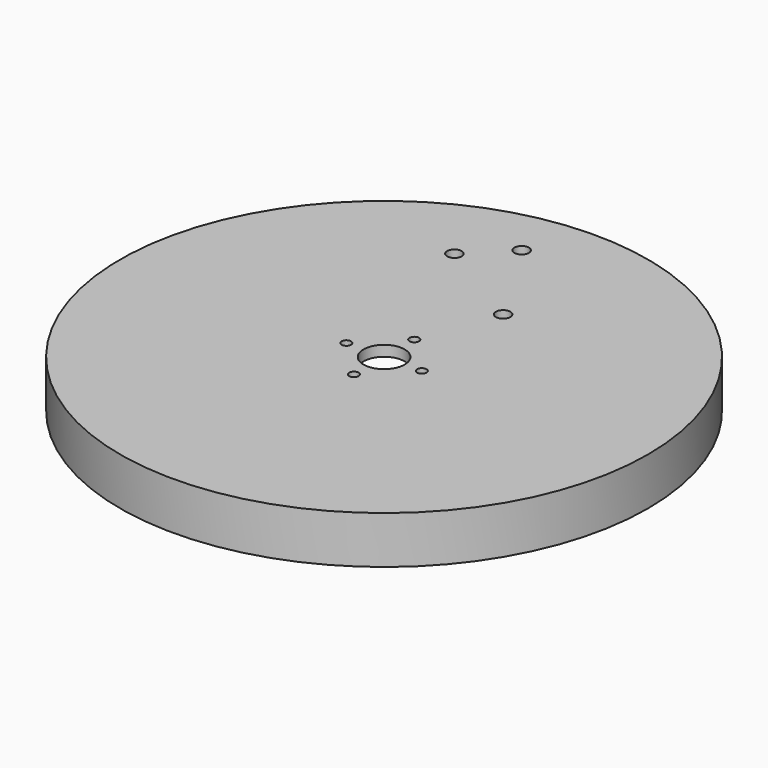
from build123d import *

# Parameters (mm, degrees)
SKETCH003_R       = 1.375
EXTRUDE004_DEPTH  = 10
SKETCH001_R       = 0.9
EXTRUDE_DEPTH     = 2
SKETCH_R          = 3.9
EXTRUDE001_DEPTH  = 2
CYLINDER001_R     = 45
CYLINDER001_DEPTH = 7
CYLINDER_R        = 50
CYLINDER_DEPTH    = 9


with BuildPart() as extrude004:
    # Sketch003 (on Face6 of Extrude002) → Extrude004 (new body)
    with BuildSketch(Plane.XY.offset(14)):
        with Locations((-12.541029, 32.340019)):
            Circle(SKETCH003_R)
        with Locations((-5.469961, 39.411087)):
            Circle(SKETCH003_R)
        with Locations((5.225029, 21.645029)):
            Circle(SKETCH003_R)
    extrude(amount=-EXTRUDE004_DEPTH)


with BuildPart() as screwholes_middle_outer:
    # Sketch001 (on Face3 of Cut001) → Extrude (new body)
    with BuildSketch(Plane.XY.offset(9)):
        with Locations((0, 7.15)):
            Circle(SKETCH001_R)
        with Locations((-7.15, 0)):
            Circle(SKETCH001_R)
        with Locations((0, -7.15)):
            Circle(SKETCH001_R)
        with Locations((7.15, 0)):
            Circle(SKETCH001_R)
    extrude(amount=-EXTRUDE_DEPTH)


with BuildPart() as screwholes_middle_inner:
    # Sketch (on Face3 of Cut) → Extrude001 (new body)
    with BuildSketch(Plane.XY.offset(9)):
        Circle(SKETCH_R)
    extrude(amount=-EXTRUDE001_DEPTH)


with BuildPart() as cylinder001:
    # Cylinder001 → Cylinder001 (new body)
    with BuildSketch(Plane.XY):
        Circle(CYLINDER001_R)
    extrude(amount=CYLINDER001_DEPTH)


with BuildPart() as platform_shoulder_screws:
    # Cylinder → Cylinder (new body)
    with BuildSketch(Plane.XY):
        Circle(CYLINDER_R)
    extrude(amount=CYLINDER_DEPTH)

    # Cut: cut Cylinder001
    add(cylinder001.part, mode=Mode.SUBTRACT)

    # Cut001: cut Screwholes-middle-inner
    add(screwholes_middle_inner.part, mode=Mode.SUBTRACT)

    # Cut002: cut Screwholes-middle-outer
    add(screwholes_middle_outer.part, mode=Mode.SUBTRACT)

    # Cut003: cut Extrude004
    add(extrude004.part, mode=Mode.SUBTRACT)


solid = platform_shoulder_screws.part
